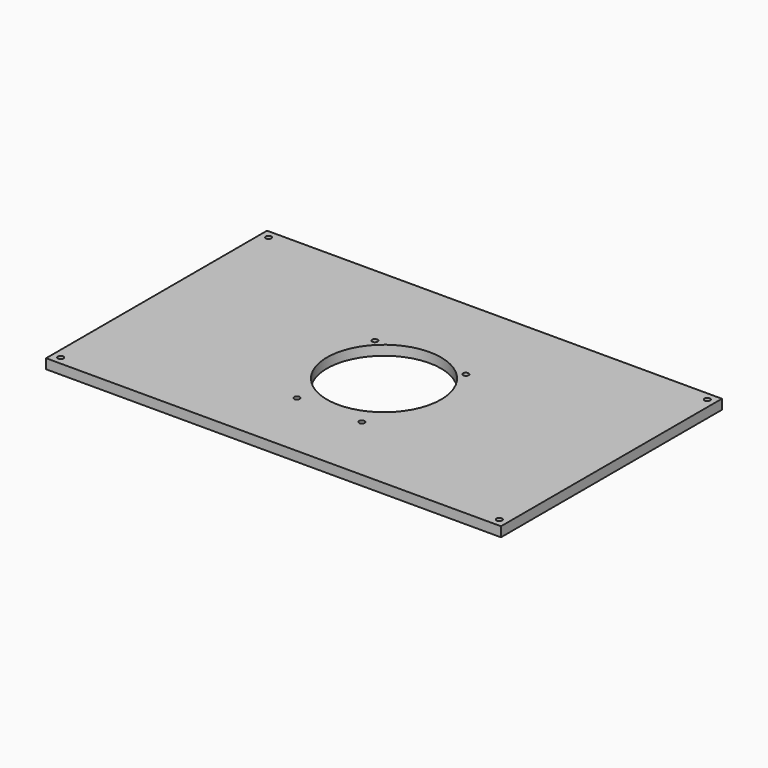
from build123d import *

# Parameters (mm, degrees)
SKETCH_W      = 280
SKETCH_H      = 170
SKETCH_R      = 1.7
PAD_DEPTH     = 6
SKETCH002_R   = 35.14
SKETCH002_R_2 = 1.7
POCKET_DEPTH  = 6.001


with BuildPart() as part:
    # Sketch → Pad (new body)
    with BuildSketch(Plane.XY):
        Rectangle(SKETCH_W, SKETCH_H)
        with Locations((-135, 80)):
            Circle(SKETCH_R, mode=Mode.SUBTRACT)
        with Locations((-135, -80)):
            Circle(SKETCH_R, mode=Mode.SUBTRACT)
        with Locations((135, 80)):
            Circle(SKETCH_R, mode=Mode.SUBTRACT)
        with Locations((135, -80)):
            Circle(SKETCH_R, mode=Mode.SUBTRACT)
    extrude(amount=PAD_DEPTH)

    # Sketch002 (on Face10 of Pad) → Pocket (cut, through all)
    with BuildSketch(Plane.XY.offset(6)):
        Circle(SKETCH002_R)
        with Locations((-28, 28)):
            Circle(SKETCH002_R_2)
        with Locations((28, 28)):
            Circle(SKETCH002_R_2)
        with Locations((-20, -42)):
            Circle(SKETCH002_R_2)
        with Locations((20, -42)):
            Circle(SKETCH002_R_2)
    extrude(amount=-POCKET_DEPTH, mode=Mode.SUBTRACT)


solid = part.part
